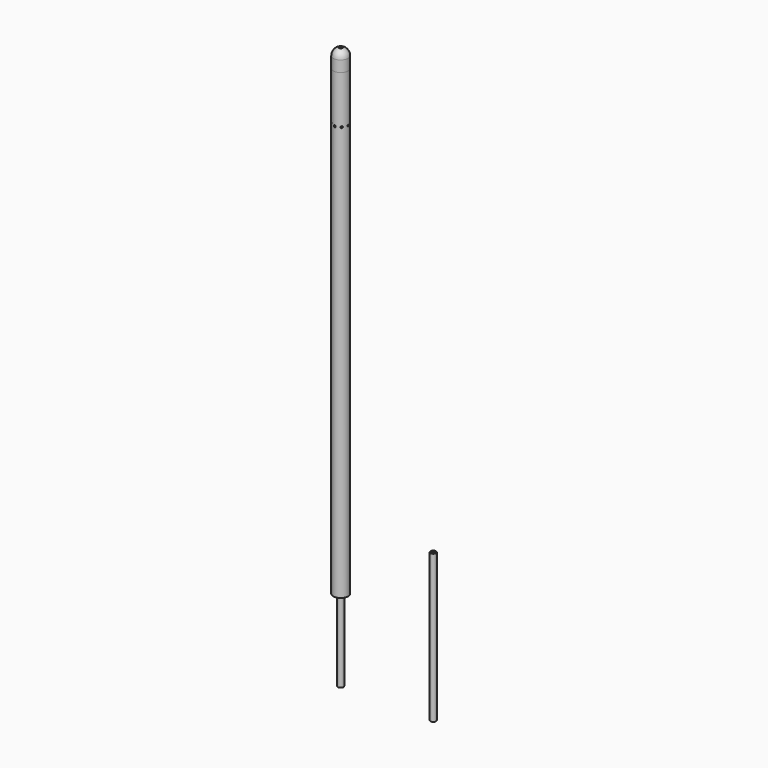
from build123d import *

# Parameters (mm, degrees)
SKETCH_R           = 4
SKETCH_R_2         = 3
PAD_DEPTH          = 250
SKETCH001_W        = 5
SKETCH001_H        = 5
PAD001_DEPTH       = 10
SKETCH002_R        = 0.5
POCKET_DEPTH       = 3
POLARPATTERN_COUNT = 8
SKETCH003_W        = 8.429369
SKETCH003_H        = 7.155477
POCKET001_DEPTH    = 10
SKETCH004_R        = 1.5
SKETCH004_R_2      = 1
PAD002_DEPTH       = 293
SKETCH006_R        = 1.5
SKETCH006_R_2      = 1
PAD003_DEPTH       = 80


with BuildPart() as pocket001:
    # Sketch → Pad (new body)
    with BuildSketch(Plane.XY.offset(44)):
        Circle(SKETCH_R)
        Circle(SKETCH_R_2, mode=Mode.SUBTRACT)
    extrude(amount=PAD_DEPTH)

    # Sketch001 → Pad001 (new body)
    with BuildSketch(Plane.XY.offset(294)):
        with Locations((2.5, -2.5)):
            Rectangle(SKETCH001_W, SKETCH001_H)
    extrude(amount=PAD001_DEPTH)

    # Sketch002 → Pocket (cut)
    with BuildSketch(Plane(origin=(0, -5, 44), x_dir=(1, 0, 0), z_dir=(0, -1, 0))):
        with Locations((0, 224)):
            Circle(SKETCH002_R)
    pocket = extrude(amount=-POCKET_DEPTH, mode=Mode.SUBTRACT)

    # PolarPattern: Pocket ×8 about axis
    polarpattern_axis = Axis((0, 0, 299), (0, 0, 1))
    for i in range(1, POLARPATTERN_COUNT):
        add(pocket.rotate(polarpattern_axis, i * 360 / POLARPATTERN_COUNT), mode=Mode.SUBTRACT)

    # Sketch003 → Pocket001 (cut)
    with BuildSketch(Plane.XY.offset(304)):
        with Locations((3.121665, -2.696092)):
            Rectangle(SKETCH003_W, SKETCH003_H)
    extrude(amount=-POCKET001_DEPTH, mode=Mode.SUBTRACT)


with BuildPart() as pad002:
    # Sketch004 → Pad002 (new body)
    with BuildSketch(Plane.XY):
        Circle(SKETCH004_R)
        Circle(SKETCH004_R_2, mode=Mode.SUBTRACT)
    extrude(amount=PAD002_DEPTH)


with BuildPart() as revolution:
    # Sketch005 → Revolution (revolve)
    with BuildSketch(Plane(origin=(0, 0, 300), x_dir=(0, 0, -1), z_dir=(1, 0, 0))):
        with BuildLine():
            Line((0, 4), (6, 4))
            Line((6, 4), (6, 3))
            Line((6, 3), (11, 3))
            Line((11, 3), (11, 1.5))
            Line((11, 1.5), (8, 1.5))
            Line((8, 1.5), (8, 1))
            Line((8, 1), (-3.925111, 1))
            ThreePointArc((0, 4), (-2.481046, 3.178377), (-3.925111, 1))
        make_face()
    revolve(axis=Axis((0, 0, 300), (0, 0, -1)))


with BuildPart() as pad003:
    # Sketch006 → Pad003 (new body)
    with BuildSketch(Plane(origin=(50, 0, 0), x_dir=(1, 0, 0), z_dir=(0, 0, 1))):
        Circle(SKETCH006_R)
        Circle(SKETCH006_R_2, mode=Mode.SUBTRACT)
    extrude(amount=PAD003_DEPTH)


solid = Compound([pocket001.part, pad002.part, revolution.part, pad003.part])
